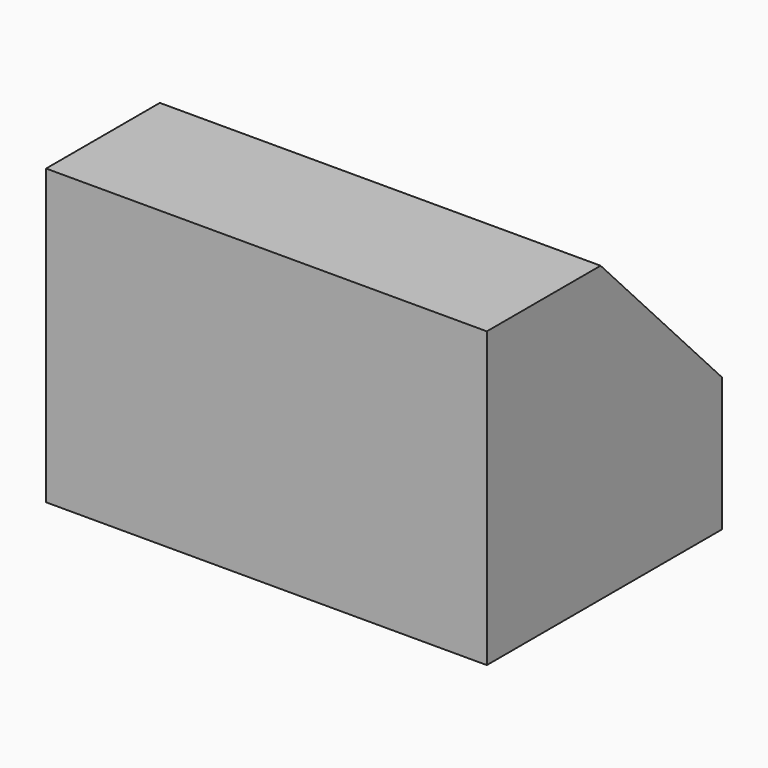
from build123d import *

# Parameters (mm, degrees)
F0_W     = 76.2
F0_H     = 50.8
F1_DEPTH = 50.8
F3_DEPTH = 81.788
F4_W     = 44.9072
F4_H     = 51.87745
F5_DEPTH = 47.244


with BuildPart() as f1:
    # F0 (on Top) → F1 (new body)
    with BuildSketch(Plane.XY):
        with Locations((0.774292, -7.57095)):
            Rectangle(F0_W, F0_H)
    extrude(amount=F1_DEPTH)

    # F2 (on face) → F3 (cut)
    with BuildSketch(Plane(origin=(-37.325708, 0, 0), x_dir=(0, -1, 0), z_dir=(-1, 0, 0))):
        Polygon((-17.82905, 23.158375), (8.392135, 50.8), (-17.82905, 50.8), align=None)
    extrude(amount=-F3_DEPTH, mode=Mode.SUBTRACT)

    # F4 (on Front) → F5 (cut)
    with BuildSketch(Plane.XZ):
        with Locations((1.031568, 25.938725)):
            Rectangle(F4_W, F4_H)
    extrude(amount=-F5_DEPTH, mode=Mode.SUBTRACT)


solid = f1.part
